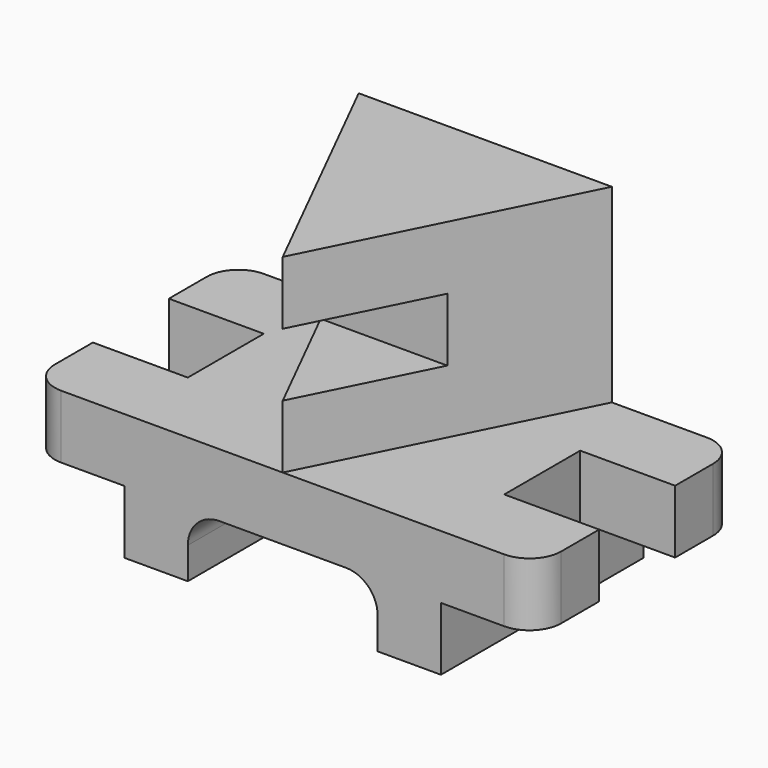
from build123d import *

# Parameters (mm, degrees)
F1_DEPTH  = 25.4
F3_DEPTH  = 25.4
F5_DEPTH  = 25.4
F7_DEPTH  = 25.4
F8_W      = 25.4
F8_H      = 101.6
F9_DEPTH  = 25.4
F11_DEPTH = 101.6


with BuildPart() as f1:
    # F0 (on Top) → F1 (new body)
    with BuildSketch(Plane.XY):
        Polygon((0, 31.75), (0, 0), (177.8, 0), (177.8, 31.75), (152.4, 31.75), (152.4, 69.85), (177.8, 69.85), (177.8, 101.6), (0, 101.6), (0, 69.85), (25.4, 69.85), (25.4, 31.75), align=None)
        with BuildLine():
            ThreePointArc((-12.7, 12.7), (-8.9802561211, 3.7197438789), (0, 0))
            Line((0, 0), (0, 31.75))
            Line((0, 31.75), (-12.7, 31.75))
            Line((-12.7, 31.75), (-12.7, 12.7))
        make_face()
        with BuildLine():
            Line((177.8, 31.75), (177.8, 0))
            ThreePointArc((177.8, 0), (186.7802561211, 3.7197438789), (190.5, 12.7))
            Line((190.5, 12.7), (190.5, 31.75))
            Line((190.5, 31.75), (177.8, 31.75))
        make_face()
        with BuildLine():
            Line((-12.7, 69.85), (0, 69.85))
            Line((0, 69.85), (0, 101.6))
            ThreePointArc((0, 101.6), (-8.9802561211, 97.8802561211), (-12.7, 88.9))
            Line((-12.7, 88.9), (-12.7, 69.85))
        make_face()
        with BuildLine():
            Line((177.8, 101.6), (177.8, 69.85))
            Line((177.8, 69.85), (190.5, 69.85))
            Line((190.5, 69.85), (190.5, 88.9))
            ThreePointArc((190.5, 88.9), (186.7802561211, 97.8802561211), (177.8, 101.6))
        make_face()
    extrude(amount=F1_DEPTH)

    # F2 (on face) → F3 (join)
    with BuildSketch(Plane.XY.offset(25.4)):
        Polygon((38.1, 101.6), (88.9, 0), (139.7, 101.6), align=None)
    extrude(amount=F3_DEPTH)

    # F4 (on face) → F5 (join)
    with BuildSketch(Plane.XY.offset(50.8)):
        Polygon((139.7, 101.6), (38.1, 101.6), (63.5, 50.8), (114.3, 50.8), align=None)
    extrude(amount=F5_DEPTH)

    # F6 (on face) → F7 (join)
    with BuildSketch(Plane.XY.offset(76.2)):
        Polygon((139.7, 101.6), (38.1, 101.6), (88.9, 0), align=None)
    extrude(amount=F7_DEPTH)

    # F8 (on face) → F9 (join)
    with BuildSketch(Plane(origin=(0, 0, 0), x_dir=(1, 0, 0), z_dir=(0, 0, -1))):
        with Locations((38.1, -50.8)):
            Rectangle(F8_W, F8_H)
        with Locations((139.7, -50.8)):
            Rectangle(F8_W, F8_H)
    extrude(amount=F9_DEPTH)

    # F10 (on face) → F11 (join)
    with BuildSketch(Plane.XZ):
        with BuildLine():
            Line((63.5, 0), (50.8, 0))
            Line((50.8, 0), (50.8, -12.7))
            ThreePointArc((50.8, -12.7), (54.5197438789, -3.7197438789), (63.5, 0))
        make_face()
        with BuildLine():
            Line((127, 0), (114.3, 0))
            ThreePointArc((114.3, 0), (123.2802561211, -3.7197438789), (127, -12.7))
            Line((127, -12.7), (127, 0))
        make_face()
    extrude(amount=-F11_DEPTH)


solid = f1.part
